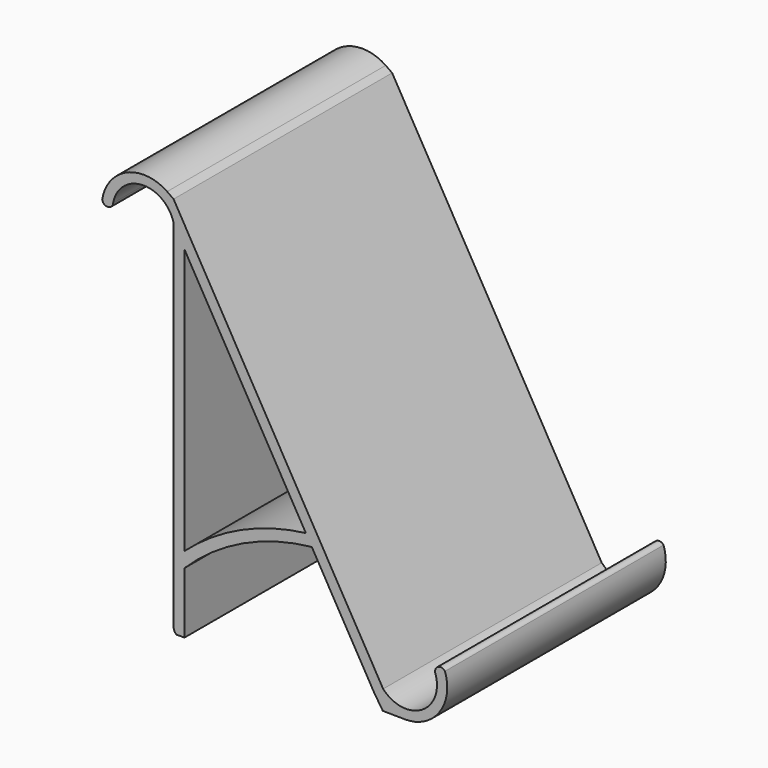
from build123d import *

# Parameters (mm, degrees)
F1_DEPTH = 50


with BuildPart() as f1:
    # F0 (on Front) → F1 (new body)
    with BuildSketch(Plane.XZ):
        with BuildLine():
            Line((0, -33.954892), (0, -33.836659))
            ThreePointArc((0, -33.836659), (-0.00126, -33.895775), (0, -33.954892))
        make_face()
        with BuildLine():
            ThreePointArc((49.675422, -24.909633), (48.363599, -24.63749), (47.943371, -25.909633))
            Line((47.943371, -25.909633), (49.675422, -24.909633))
        make_face()
        with BuildLine():
            ThreePointArc((-11.056473, 30.75309), (-5.706673, 35.424211), (0, 31.196491))
            Line((0, 31.196491), (0, -33.836659))
            Line((0, -33.836659), (0, -33.954892))
            ThreePointArc((0, -33.954892), (0.15657, -34.538394), (0.546324, -35))
            Line((0.546324, -35), (2, -35))
            Line((2, -35), (2, -31.407117))
            Line((2, -31.407117), (2, -23.796766))
            Line((2, -23.796766), (2, -21.053646))
            Line((2, -21.053646), (2, 27.535898))
            Line((2, 27.535898), (24.209257, -10.931663))
            Line((24.209257, -10.931663), (25.299458, -12.819946))
            Line((25.299458, -12.819946), (28.079932, -17.63587))
            Line((28.079932, -17.63587), (29.222063, -19.614098))
            Line((29.222063, -19.614098), (36.323056, -31.913379))
            ThreePointArc((36.323056, -31.913379), (36.382653, -32.018943), (36.444276, -32.123337))
            Line((36.444276, -32.123337), (36.628437, -32.442314))
            Line((36.628437, -32.442314), (38.28879, -35))
            Line((38.28879, -35), (42.321741, -35.047891))
            ThreePointArc((42.321741, -35.047891), (48.621987, -31.881622), (49.675422, -24.909633))
            Line((49.675422, -24.909633), (47.943371, -25.909633))
            ThreePointArc((47.943371, -25.909633), (45.378428, -32.532382), (38.360488, -31.442314))
            Line((38.360488, -31.442314), (0, 35))
            Line((0, 35), (-1.17189, 35.830163))
            ThreePointArc((-1.17189, 35.830163), (-8.531164, 36.51834), (-13.054867, 30.672948))
            ThreePointArc((-13.054867, 30.672948), (-12.019943, 29.82214), (-11.056473, 30.75309))
        make_face()
        with BuildLine():
            Line((2, -21.053646), (2, -23.796766))
            ThreePointArc((2, -23.796766), (12.715107, -16.324522), (25.299458, -12.819946))
            Line((25.299458, -12.819946), (24.209257, -10.931663))
            ThreePointArc((24.209257, -10.931663), (12.332152, -14.297716), (2, -21.053646))
        make_face()
    extrude(amount=F1_DEPTH)


solid = f1.part
